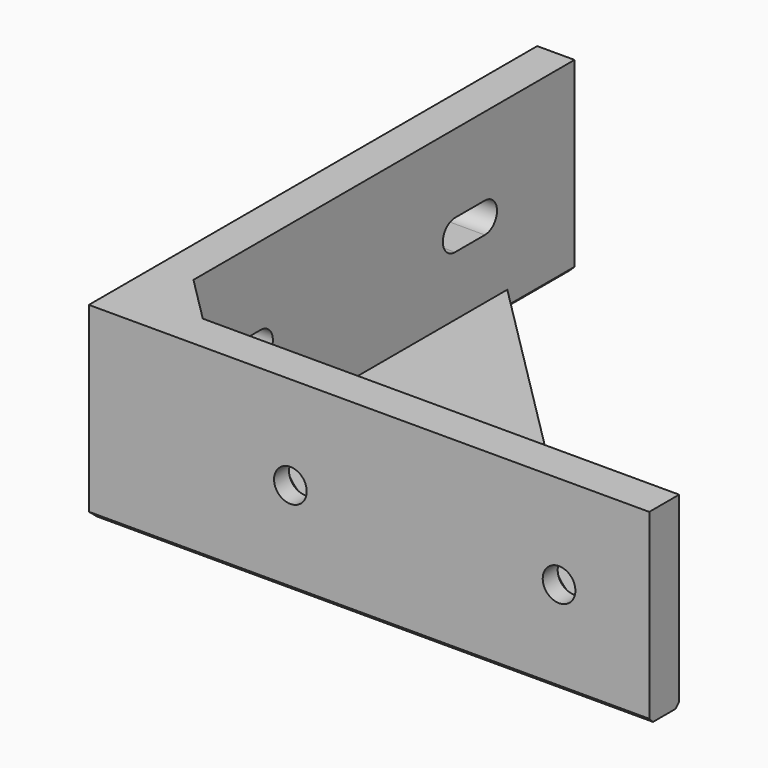
from build123d import *

# Parameters (mm, degrees)
PAD_DEPTH       = 20
PAD001_DEPTH    = 2
CHAMFER_SIZE    = 0.5
CHAMFER001_SIZE = 0.5
CHAMFER002_SIZE = 0.5
CHAMFER003_SIZE = 5
SKETCH002_R     = 1.75
HOLE_DEPTH      = 25
CHAMFER004_SIZE = 2
POCKET_DEPTH    = 5
CHAMFER005_SIZE = 0.5


with BuildPart() as part:
    # Sketch → Pad (new body)
    with BuildSketch(Plane.XY):
        Polygon((0, 0), (0, 60), (4, 60), (4, 4), (60, 4), (60, 0), align=None)
    extrude(amount=PAD_DEPTH)

    # Sketch001 (on Face7 of Pad) → Pad001 (join)
    with BuildSketch(Plane(origin=(0, 0, 0), x_dir=(1, 0, 0), z_dir=(0, 0, -1))):
        Polygon((0, 0), (0, -55), (55, 0), align=None)
    extrude(amount=-PAD001_DEPTH)

    # Chamfer
    chamfer_edges = [part.edges().sort_by_distance(p)[0] for p in [
        (27.5, 0, 0),
        (57.5, 0, 0),
    ]]
    chamfer(chamfer_edges, length=CHAMFER_SIZE)

    # Chamfer001
    chamfer001_edges = [part.edges().sort_by_distance(p)[0] for p in [
        (0, 27.75, 0),
        (0, 57.5, 0),
    ]]
    chamfer(chamfer001_edges, length=CHAMFER001_SIZE)

    # Chamfer002
    chamfer002_edges = [part.edges().sort_by_distance(p)[0] for p in [
        (4, 55.5, 0),
        (55.5, 4, 0),
    ]]
    chamfer(chamfer002_edges, length=CHAMFER002_SIZE)

    # Chamfer003
    chamfer003_edges = [part.edges().sort_by_distance(p)[0] for p in [
        (4, 4, 11),
    ]]
    chamfer(chamfer003_edges, length=CHAMFER003_SIZE)

    # Sketch002 (on Face9 of Chamfer003) → Hole (cut)
    with BuildSketch(Plane(origin=(0, 4, 0), x_dir=(-1, 0, 0), z_dir=(0, 1, 0))):
        with Locations((-50.342533, 10)):
            Circle(SKETCH002_R)
        with Locations((-21.578398, 10)):
            Circle(SKETCH002_R)
    extrude(amount=-HOLE_DEPTH, mode=Mode.SUBTRACT)

    # Chamfer004
    chamfer004_edges = [part.edges().sort_by_distance(p)[0] for p in [
        (19.828398, 4, 10),
        (48.592533, 4, 10),
    ]]
    chamfer(chamfer004_edges, length=CHAMFER004_SIZE)

    # Sketch003 (on Face14 of Chamfer004) → Pocket (cut)
    with BuildSketch(Plane(origin=(0, 0, 0), x_dir=(0, -1, 0), z_dir=(-1, 0, 0))):
        with BuildLine():
            ThreePointArc((-48, 11.625), (-49.625, 10), (-48, 8.375))
            Line((-48, 8.375), (-44, 8.375))
            ThreePointArc((-44, 8.375), (-42.375, 10), (-44, 11.625))
            Line((-48, 11.625), (-44, 11.625))
        make_face()
        with BuildLine():
            ThreePointArc((-18, 11.625), (-19.625, 10), (-18, 8.375))
            Line((-18, 8.375), (-14, 8.375))
            ThreePointArc((-14, 8.375), (-12.375, 10), (-14, 11.625))
            Line((-18, 11.625), (-14, 11.625))
        make_face()
    extrude(amount=-POCKET_DEPTH, mode=Mode.SUBTRACT)

    # Chamfer005
    chamfer005_edges = [part.edges().sort_by_distance(p)[0] for p in [
        (27.5, 27.5, 0),
    ]]
    chamfer(chamfer005_edges, length=CHAMFER005_SIZE)


solid = part.part
